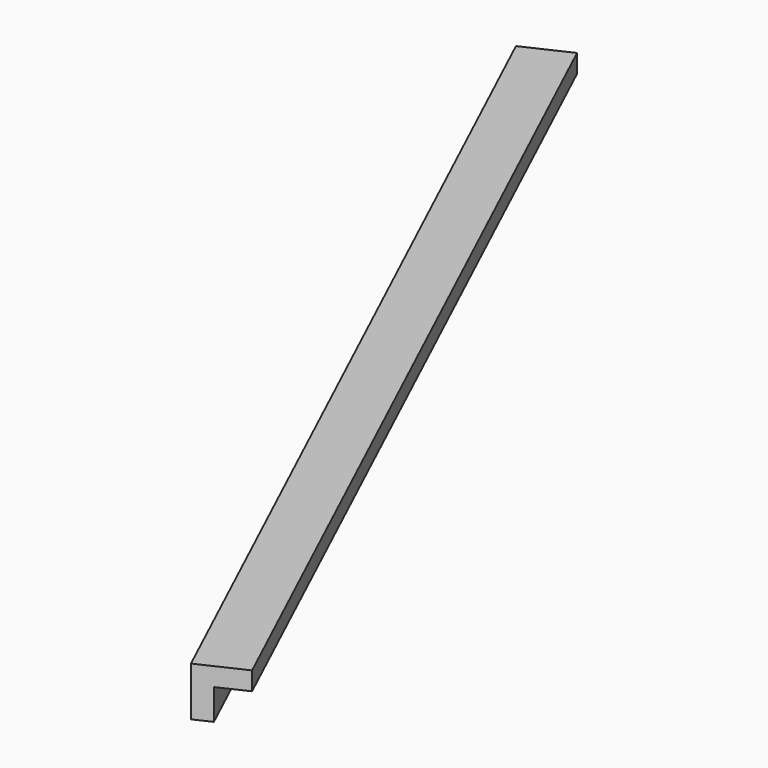
from build123d import *

# Parameters (mm, degrees)
BOX167_W               = 0.8
BOX167_H               = 17.5
BOX167_DEPTH           = 0.8
BOX168_W               = 0.8
BOX168_H               = 17.5
BOX168_DEPTH           = 0.8
CUT087_PLACEMENT_ANGLE = 205


with BuildPart() as cubo167:
    # Box167 → Box167 (new body)
    with BuildSketch(Plane.XY):
        with Locations((0.4, 8.75)):
            Rectangle(BOX167_W, BOX167_H)
    extrude(amount=BOX167_DEPTH)


with BuildPart() as obj1:
    # Box168 → Box168 (new body)
    with BuildSketch(Plane(origin=(0.3, 0, 0.3), x_dir=(1, 0, 0), z_dir=(0, 0, 1))):
        with Locations((0.4, 8.75)):
            Rectangle(BOX168_W, BOX168_H)
    extrude(amount=BOX168_DEPTH)

    # Cut087: cut Cubo167
    add(cubo167.part, mode=Mode.SUBTRACT)


with BuildPart() as obj1_1:
    # Cut087 placement: moved
    add(obj1.part.moved(Location((-198, 123.4, -1.45))).rotate(Axis((-198, 123.4, -1.45), (0, 0, 1)), CUT087_PLACEMENT_ANGLE))


solid = obj1_1.part
